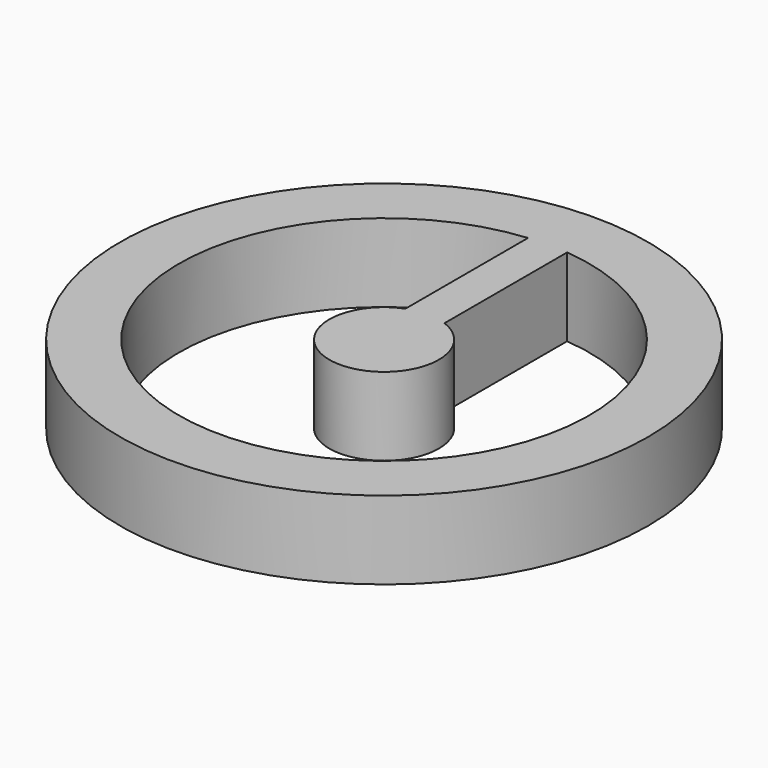
from build123d import *

# Parameters (mm, degrees)
F1_R     = 67.5
F1_R_2   = 52.5
F2_DEPTH = 20
F3_R     = 14
F4_DEPTH = 20
F5_W     = 10
F5_H     = 39.4233031694
F6_DEPTH = 20


with BuildPart() as f2:
    # F1 (on Top) → F2 (new body)
    with BuildSketch(Plane.XY):
        Circle(F1_R)
        Circle(F1_R_2, mode=Mode.SUBTRACT)
    extrude(amount=F2_DEPTH)



with BuildPart() as f4:
    # F3 (on Top) → F4 (new body)
    with BuildSketch(Plane.XY):
        Circle(F3_R)
    extrude(amount=F4_DEPTH)


with BuildPart() as f2_1:
    add(f2.part)

    add(f4.part)  # F6 merges F4
    # F5 (on Top) → F6 (join)
    with BuildSketch(Plane.XY):
        with Locations((0, 32.7883484153)):
            Rectangle(F5_W, F5_H)
    extrude(amount=F6_DEPTH)


solid = f2_1.part
